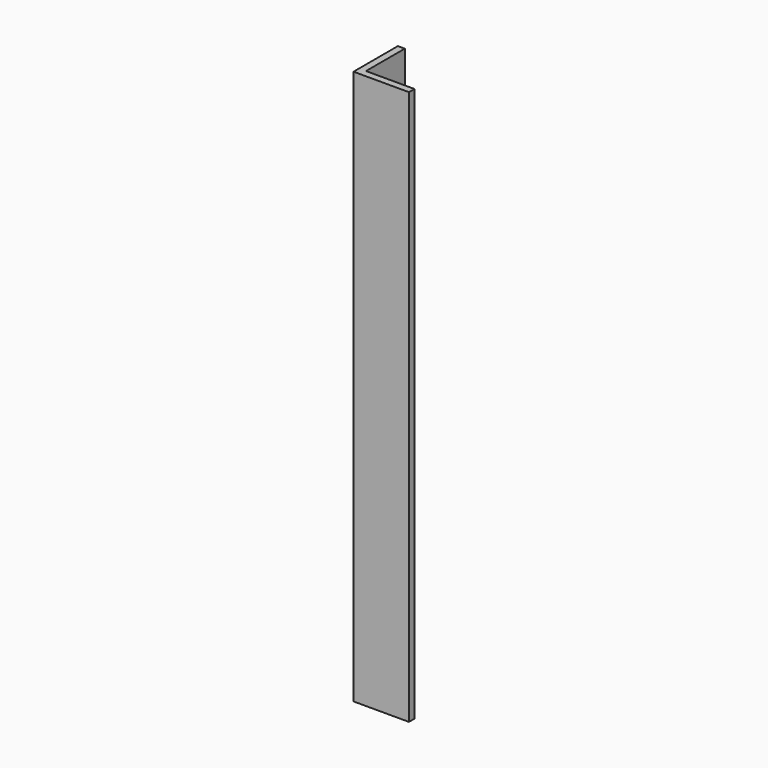
from build123d import *

# Parameters (mm, degrees)
F1_DEPTH = 127
F3_R     = 1.5875
F4_DEPTH = 25.4


with BuildPart() as f1:
    # F0 (on Top) → F1 (new body)
    with BuildSketch(Plane.XY):
        Polygon((-17.205867, -0.427721), (-18.793367, -0.427721), (-18.793367, -13.127721), (-6.093367, -13.127721), (-6.093367, -11.540221), (-17.205867, -11.540221), align=None)
    extrude(amount=F1_DEPTH)

    # F3 (on face) → F4 (cut)
    with BuildSketch(Plane.YZ.offset(-17.205867)):
        with Locations((-6.777721, 6.35)):
            Circle(F3_R)
        with Locations((-6.777721, 120.65)):
            Circle(F3_R)
    extrude(amount=-F4_DEPTH, mode=Mode.SUBTRACT)


solid = f1.part
